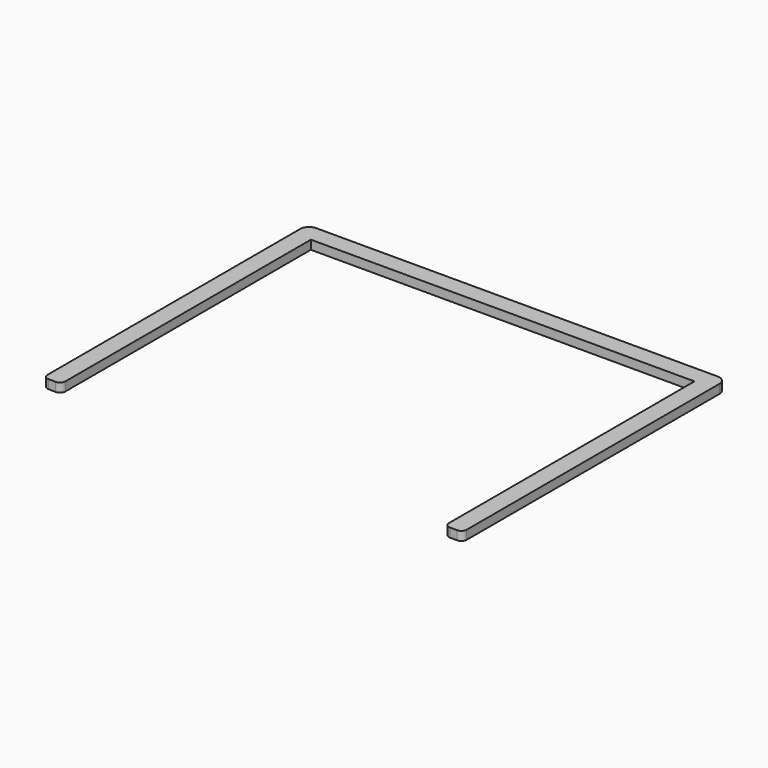
from build123d import *

# Parameters (mm, degrees)
F1_DEPTH = 5


with BuildPart() as f1:
    # F0 (on Top) → F1 (new body)
    with BuildSketch(Plane.XY):
        with BuildLine():
            Line((-107.5, 87.5), (107.5, 87.5))
            Line((107.5, 87.5), (107.5, -84.516405))
            ThreePointArc((107.5, -84.516405), (108.372872, -86.631901), (110.483551, -87.516359))
            Line((110.483551, -87.516359), (114.483551, -87.538292))
            ThreePointArc((114.483551, -87.538292), (116.615497, -86.665465), (117.5, -84.538337))
            Line((117.5, -84.538337), (117.5, 92.5))
            ThreePointArc((117.5, 92.5), (116.035534, 96.035534), (112.5, 97.5))
            Line((112.5, 97.5), (-112.5, 97.5))
            ThreePointArc((-112.5, 97.5), (-116.035534, 96.035534), (-117.5, 92.5))
            Line((-117.5, 92.5), (-117.5, -84.461572))
            ThreePointArc((-117.5, -84.461572), (-116.627128, -86.577069), (-114.516449, -87.461527))
            Line((-114.516449, -87.461527), (-110.516449, -87.48346))
            ThreePointArc((-110.516449, -87.48346), (-108.384503, -86.610633), (-107.5, -84.483505))
            Line((-107.5, -84.483505), (-107.5, 87.5))
        make_face()
    extrude(amount=F1_DEPTH)


solid = f1.part
